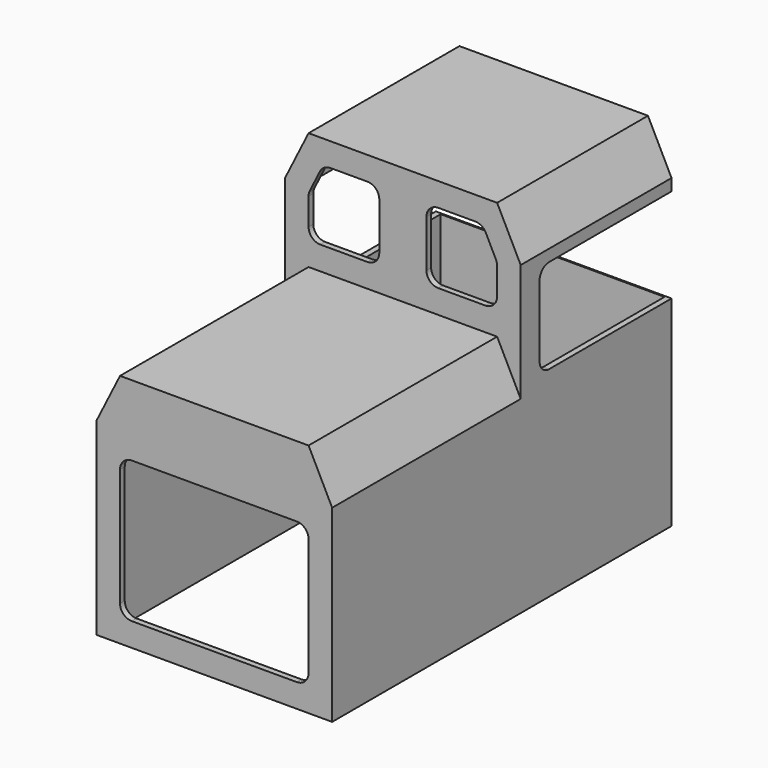
from build123d import *

# Parameters (mm, degrees)
F1_DEPTH  = 508
F3_DEPTH  = 406.4
F4_T      = -12.7
F6_DEPTH  = 508.001
F8_DEPTH  = 25.4
F10_DEPTH = 25.4
F11_W     = 508
F11_H     = 431.8
F12_DEPTH = 3


with BuildPart() as f1:
    # F0 (on Front) → F1 (new body)
    with BuildSketch(Plane.XZ):
        Polygon((-228.6, 155.0921710968), (-228.6, -251.3078289032), (279.4, -251.3078289032), (279.4, 155.0921710968), (228.6, 256.6921710968), (-177.8, 256.6921710968), align=None)
    extrude(amount=F1_DEPTH)

    # F2 (on face) → F3 (join)
    with BuildSketch(Plane(origin=(0, 0, 0), x_dir=(-1, 0, 0), z_dir=(0, 1, 0))):
        Polygon((-279.4, 409.0921710968), (-279.4, -251.3078289032), (228.6, -251.3078289032), (228.6, 409.0921710968), (177.8, 510.6921710968), (-228.6, 510.6921710968), align=None)
    extrude(amount=F3_DEPTH)

    # F4
    f4_openings = [f1.faces().sort_by_distance(p)[0] for p in [
        (25.4, -50.8, -251.307829),
        (25.4, 406.4, 125.00118),
    ]]
    offset(amount=F4_T, openings=f4_openings, kind=Kind.INTERSECTION)

    # F5 (on face) → F6 (cut, through all)
    with BuildSketch(Plane.YZ.offset(279.4)):
        with BuildLine():
            Line((406.4, 180.4921710968), (406.4, 383.6921710968))
            Line((406.4, 383.6921710968), (76.2, 383.6921710968))
            ThreePointArc((76.2, 383.6921710968), (58.2394877579, 376.2526833389), (50.8, 358.2921710968))
            Line((50.8, 358.2921710968), (50.8, 205.8921710968))
            ThreePointArc((50.8, 205.8921710968), (58.2394877579, 187.9316588547), (76.2, 180.4921710968))
            Line((76.2, 180.4921710968), (406.4, 180.4921710968))
        make_face()
    extrude(amount=-F6_DEPTH, mode=Mode.SUBTRACT)

    # F7 (on face) → F8 (cut)
    with BuildSketch(Plane.XZ.offset(508)):
        with BuildLine():
            Line((203.2, 104.2921710968), (-152.4, 104.2921710968))
            ThreePointArc((-152.4, 104.2921710968), (-170.3605122421, 96.8526833389), (-177.8, 78.8921710968))
            Line((-177.8, 78.8921710968), (-177.8, -175.1078289032))
            ThreePointArc((-177.8, -175.1078289032), (-170.3605122421, -193.0683411453), (-152.4, -200.5078289032))
            Line((-152.4, -200.5078289032), (203.2, -200.5078289032))
            ThreePointArc((203.2, -200.5078289032), (221.1605122421, -193.0683411453), (228.6, -175.1078289032))
            Line((228.6, -175.1078289032), (228.6, 78.8921710968))
            ThreePointArc((228.6, 78.8921710968), (221.1605122421, 96.8526833389), (203.2, 104.2921710968))
        make_face()
    extrude(amount=-F8_DEPTH, mode=Mode.SUBTRACT)

    # F9 (on face) → F10 (cut)
    with BuildSketch(Plane.XZ):
        with BuildLine():
            ThreePointArc((-177.8, 332.8921710968), (-170.3605122421, 314.9316588547), (-152.4, 307.4921710968))
            Line((-152.4, 307.4921710968), (-50.8, 307.4921710968))
            ThreePointArc((-50.8, 307.4921710968), (-32.8394877579, 314.9316588547), (-25.4, 332.8921710968))
            Line((-25.4, 332.8921710968), (-25.4, 434.4921710968))
            ThreePointArc((-25.4, 434.4921710968), (-32.8394877579, 452.4526833389), (-50.8, 459.8921710968))
            Line((-50.8, 459.8921710968), (-130.7058100573, 459.8921710968))
            ThreePointArc((-130.7058100573, 459.8921710968), (-144.0593803051, 456.0987016289), (-153.4242607087, 445.8513964225))
            Line((-153.4242607087, 445.8513964225), (-175.1184506514, 402.463016537))
            ThreePointArc((-175.1184506514, 402.463016537), (-177.1205243325, 396.9395153932), (-177.8, 391.1037912113))
            Line((-177.8, 391.1037912113), (-177.8, 332.8921710968))
        make_face()
        with BuildLine():
            ThreePointArc((101.6, 459.8921710968), (83.6394877579, 452.4526833389), (76.2, 434.4921710968))
            Line((76.2, 434.4921710968), (76.2, 332.8921710968))
            ThreePointArc((76.2, 332.8921710968), (83.6394877579, 314.9316588547), (101.6, 307.4921710968))
            Line((101.6, 307.4921710968), (203.2, 307.4921710968))
            ThreePointArc((203.2, 307.4921710968), (221.1605122421, 314.9316588547), (228.6, 332.8921710968))
            Line((228.6, 332.8921710968), (228.6, 391.1037912113))
            ThreePointArc((228.6, 391.1037912113), (227.9205243325, 396.9395153932), (225.9184506514, 402.463016537))
            Line((225.9184506514, 402.463016537), (204.2242607087, 445.8513964225))
            ThreePointArc((204.2242607087, 445.8513964225), (194.8593803051, 456.0987016289), (181.5058100573, 459.8921710968))
            Line((181.5058100573, 459.8921710968), (101.6, 459.8921710968))
        make_face()
    extrude(amount=-F10_DEPTH, mode=Mode.SUBTRACT)

    # F11 (on face) → F12 (join)
    with BuildSketch(Plane(origin=(0, 406.4, 0), x_dir=(-1, 0, 0), z_dir=(0, 1, 0))):
        with Locations((-25.4, -35.4078289032)):
            Rectangle(F11_W, F11_H)
    extrude(amount=-F12_DEPTH)


solid = f1.part
